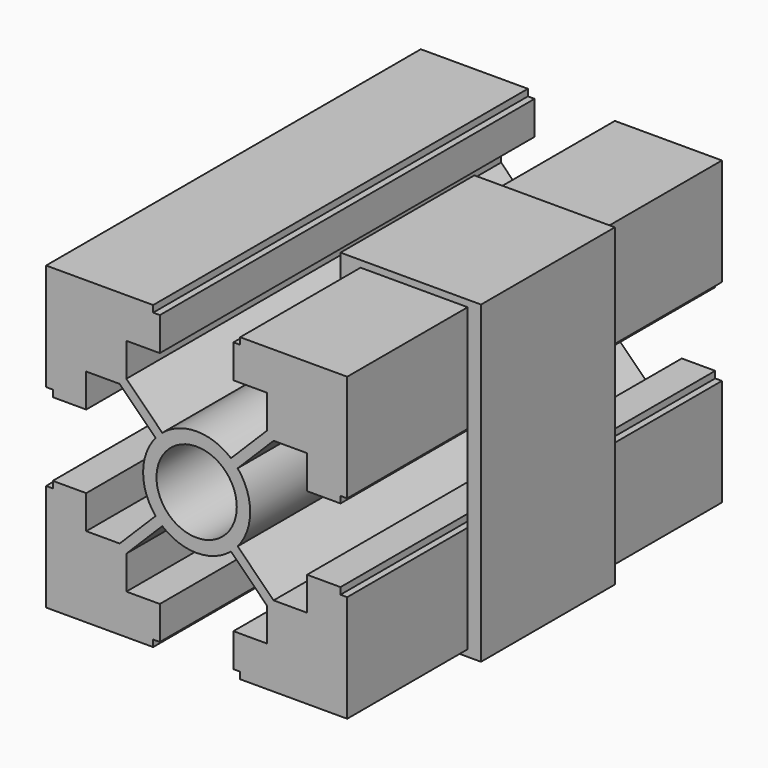
from build123d import *

# Parameters (mm, degrees)
F0_R     = 6
F1_DEPTH = 35
F3_DEPTH = 12.5


with BuildPart() as f1:
    # F0 (on Front) → F1 (new body, symmetric)
    with BuildSketch(Plane.XZ):
        with BuildLine():
            Line((-6.5, 21.5), (-6.5, 22.5))
            Line((-6.5, 22.5), (-22.5, 22.5))
            Line((-22.5, 22.5), (-22.5, 6.5))
            Line((-22.5, 6.5), (-21.5, 6.5))
            Line((-21.5, 6.5), (-21.5, 5.5))
            Line((-21.5, 5.5), (-16.5, 5.5))
            Line((-16.5, 5.5), (-16.5, 10.5))
            Line((-16.5, 10.5), (-11.5, 10.5))
            Line((-11.5, 10.5), (-6.1347138348, 5.1347138348))
            ThreePointArc((-6.1347138348, 5.1347138348), (-5.6568542495, 5.6568542495), (-5.1347138348, 6.1347138348))
            Line((-5.1347138348, 6.1347138348), (-10.5, 11.5))
            Line((-10.5, 11.5), (-10.5, 16.5))
            Line((-10.5, 16.5), (-5.5, 16.5))
            Line((-5.5, 16.5), (-5.5, 21.5))
            Line((-5.5, 21.5), (-6.5, 21.5))
        make_face()
        with BuildLine():
            ThreePointArc((5.1347138348, 6.1347138348), (0, 8), (-5.1347138348, 6.1347138348))
            ThreePointArc((-5.1347138348, 6.1347138348), (-5.6568542495, 5.6568542495), (-6.1347138348, 5.1347138348))
            ThreePointArc((-6.1347138348, 5.1347138348), (-8, 0), (-6.1347138348, -5.1347138348))
            ThreePointArc((-6.1347138348, -5.1347138348), (-5.6568542495, -5.6568542495), (-5.1347138348, -6.1347138348))
            ThreePointArc((-5.1347138348, -6.1347138348), (0, -8), (5.1347138348, -6.1347138348))
            ThreePointArc((5.1347138348, -6.1347138348), (5.6568542495, -5.6568542495), (6.1347138348, -5.1347138348))
            ThreePointArc((6.1347138348, -5.1347138348), (7.5192323637, -2.7315095938), (8, 0))
            ThreePointArc((8, 0), (7.5192323637, 2.7315095938), (6.1347138348, 5.1347138348))
            ThreePointArc((6.1347138348, 5.1347138348), (5.6568542495, 5.6568542495), (5.1347138348, 6.1347138348))
        make_face()
        Circle(F0_R, mode=Mode.SUBTRACT)
        with BuildLine():
            Line((10.5, 11.5), (5.1347138348, 6.1347138348))
            ThreePointArc((5.1347138348, 6.1347138348), (5.6568542495, 5.6568542495), (6.1347138348, 5.1347138348))
            Line((6.1347138348, 5.1347138348), (11.5, 10.5))
            Line((11.5, 10.5), (16.5, 10.5))
            Line((16.5, 10.5), (16.5, 5.5))
            Line((16.5, 5.5), (21.5, 5.5))
            Line((21.5, 5.5), (21.5, 6.5))
            Line((21.5, 6.5), (22.5, 6.5))
            Line((22.5, 6.5), (22.5, 22.5))
            Line((22.5, 22.5), (6.5, 22.5))
            Line((6.5, 22.5), (6.5, 21.5))
            Line((6.5, 21.5), (5.5, 21.5))
            Line((5.5, 21.5), (5.5, 16.5))
            Line((5.5, 16.5), (10.5, 16.5))
            Line((10.5, 16.5), (10.5, 11.5))
        make_face()
        with BuildLine():
            ThreePointArc((-5.1347138348, -6.1347138348), (-5.6568542495, -5.6568542495), (-6.1347138348, -5.1347138348))
            Line((-6.1347138348, -5.1347138348), (-11.5, -10.5))
            Line((-11.5, -10.5), (-16.5, -10.5))
            Line((-16.5, -10.5), (-16.5, -5.5))
            Line((-16.5, -5.5), (-21.5, -5.5))
            Line((-21.5, -5.5), (-21.5, -6.5))
            Line((-21.5, -6.5), (-22.5, -6.5))
            Line((-22.5, -6.5), (-22.5, -22.5))
            Line((-22.5, -22.5), (-6.5, -22.5))
            Line((-6.5, -22.5), (-6.5, -21.5))
            Line((-6.5, -21.5), (-5.5, -21.5))
            Line((-5.5, -21.5), (-5.5, -16.5))
            Line((-5.5, -16.5), (-10.5, -16.5))
            Line((-10.5, -16.5), (-10.5, -11.5))
            Line((-10.5, -11.5), (-5.1347138348, -6.1347138348))
        make_face()
        with BuildLine():
            Line((11.5, -10.5), (6.1347138348, -5.1347138348))
            ThreePointArc((6.1347138348, -5.1347138348), (5.6568542495, -5.6568542495), (5.1347138348, -6.1347138348))
            Line((5.1347138348, -6.1347138348), (10.5, -11.5))
            Line((10.5, -11.5), (10.5, -16.5))
            Line((10.5, -16.5), (5.5, -16.5))
            Line((5.5, -16.5), (5.5, -21.5))
            Line((5.5, -21.5), (6.5, -21.5))
            Line((6.5, -21.5), (6.5, -22.5))
            Line((6.5, -22.5), (22.5, -22.5))
            Line((22.5, -22.5), (22.5, -6.5))
            Line((22.5, -6.5), (21.5, -6.5))
            Line((21.5, -6.5), (21.5, -5.5))
            Line((21.5, -5.5), (16.5, -5.5))
            Line((16.5, -5.5), (16.5, -10.5))
            Line((16.5, -10.5), (11.5, -10.5))
        make_face()
    extrude(amount=F1_DEPTH, both=True)


with BuildPart() as f3:
    # F2 (on Front) → F3 (new body, symmetric)
    with BuildSketch(Plane.XZ):
        Polygon((5.5, 14), (8, 16.5), (5.5, 16.5), (5.5, 21.5), (6.5, 22.5), (22.5, 22.5), (22.5, -22.5), (6.5, -22.5), (5.5, -21.5), (5.5, -16.5), (8, -16.5), (5.5, -14), (3.5, -14), (3.4561307877, -23.5), (24.4999988542, -23.5), (24.4999988542, 23.4993393362), (3.5, 23.5062763095), (3.5, 14), align=None)
    extrude(amount=F3_DEPTH, both=True)


solid = Compound([f1.part, f3.part])
